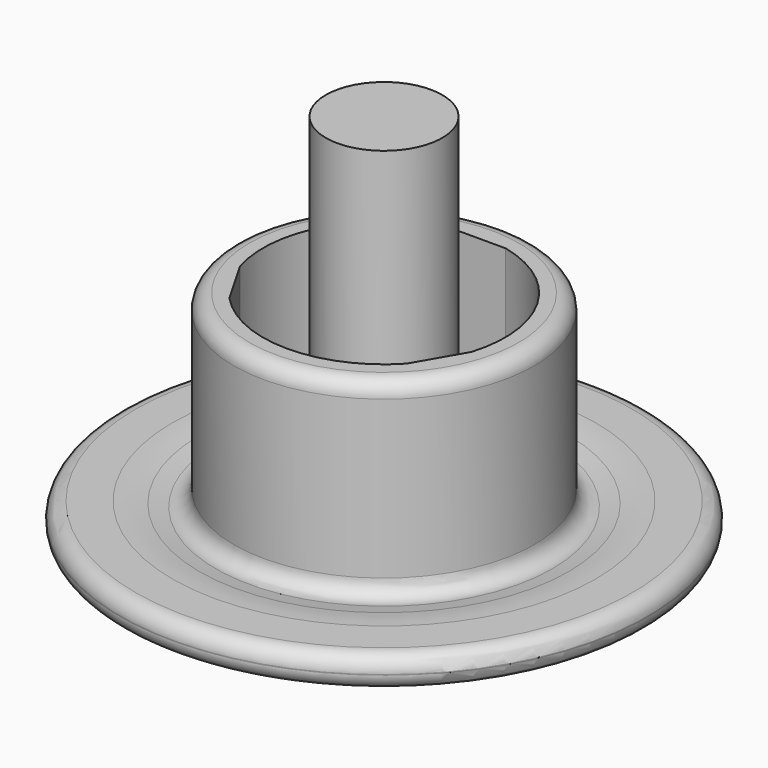
from build123d import *

# Parameters (mm, degrees)
F2_W = 5.2118794768
F2_H = 0.8645743734


with BuildPart() as f1:
    # F0 (on Front) → F1 (revolve)
    with BuildSketch(Plane.XZ):
        with BuildLine():
            ThreePointArc((-16.0120105601, 1.2973024651), (-14.9145998636, 1.220913542), (-13.8234282313, 1.0813070472))
            ThreePointArc((-13.8234282313, 1.0813070472), (-6.9328275797, 0.2707390206), (0, 0))
            Line((0, 0), (0, 2.54))
            Line((0, 2.54), (0, 31.75))
            Line((0, 31.75), (-4.7625, 31.75))
            Line((-4.7625, 31.75), (-4.7625, 2.6714189277))
            ThreePointArc((-4.7625, 2.6714189277), (-6.7655256871, 2.8054167663), (-8.7648955224, 2.9859370855))
            ThreePointArc((-8.7648955224, 2.9859370855), (-9.5784959717, 3.3981440003), (-9.906, 4.2493791872))
            Line((-9.906, 4.2493791872), (-9.906, 19.05))
            Line((-9.906, 19.05), (-11.01725, 19.05))
            ThreePointArc((-11.01725, 19.05), (-11.9152756121, 18.6780256121), (-12.28725, 17.78))
            Line((-12.28725, 17.78), (-12.28725, 4.8969698616))
            ThreePointArc((-12.28725, 4.8969698616), (-12.7338669509, 3.9300467237), (-13.7595970149, 3.6431932923))
            ThreePointArc((-13.7595970149, 3.6431932923), (-14.4253238393, 3.753305219), (-15.0901699921, 3.8686153846))
            ThreePointArc((-15.0901699921, 3.8686153846), (-16.1954489535, 4.0150595482), (-17.309312638, 4.064))
            Line((-17.309312638, 4.064), (-20.32, 4.064))
            ThreePointArc((-20.32, 4.064), (-21.2180256121, 3.6920256121), (-21.59, 2.794))
            Line((-21.59, 2.794), (-21.59, 2.7434337823))
            ThreePointArc((-21.59, 2.7434337823), (-21.2360776477, 1.8638306085), (-20.3715720576, 1.4744813313))
            Line((-20.3715720576, 1.4744813313), (-16.0120105601, 1.2973024651))
        make_face()
    revolve(axis=Axis((0, 0, 16.008906941), (0, 0, 1)))

    # F2 (on face) → F3 (join, up to the next surface of F1)
    with BuildSketch(Plane.XY.offset(19.05)):
        with Locations((-0.0263204336, 10.0842871867)):
            Rectangle(F2_W, F2_H)
        Polygon((-10.3974302206, -3.0242713366), (-7.7914904822, -7.537891365), (-7.0427471113, -7.1056041783), (-9.6486868497, -2.5919841499), align=None)
        Polygon((7.8178109157, -7.4923030368), (10.4237506542, -2.9786830084), (9.6750072833, -2.5463958217), (7.0690675449, -7.0600158501), align=None)
    extrude(until=Until.NEXT, dir=(0, 0, -1))


solid = f1.part
